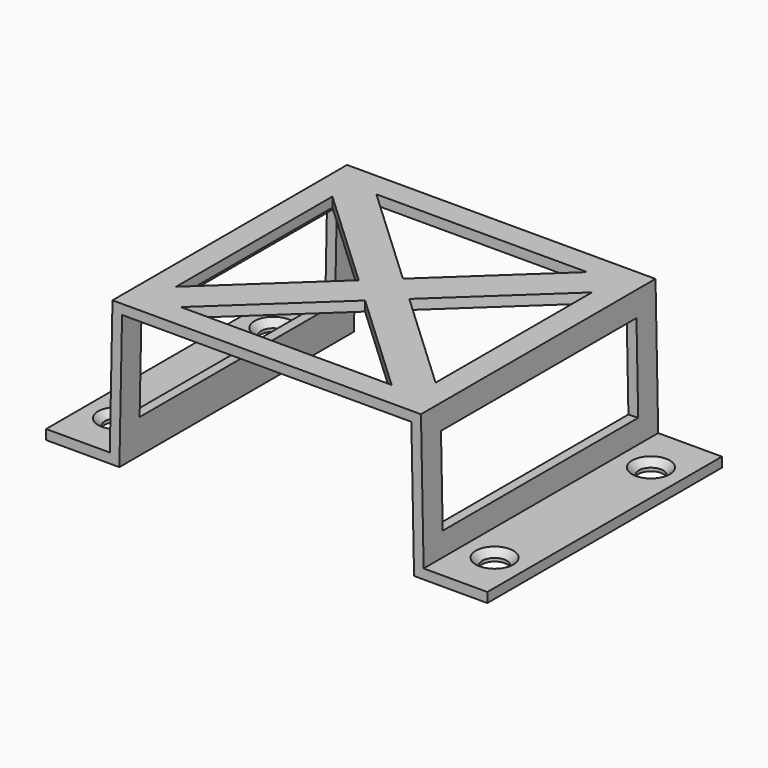
from build123d import *

# Parameters (mm, degrees)
F1_DEPTH       = 60
F3_D           = 5
F3_CSINK_D     = 7.7
F3_CSINK_ANGLE = 90
F5_DEPTH       = 29.6009997154
F6_W           = 50
F6_H           = 17.8652722283
F7_W           = 50
F7_H           = 17.6054795285
F8_DEPTH       = 5


with BuildPart() as f1:
    # F0 (on Front) → F1 (new body)
    with BuildSketch(Plane.XZ):
        Polygon((-88.3284620883, 15.3996990994), (-88.3284620883, 13.399699384), (-73.3284620883, 13.399699384), (-72.7784620883, 40.999699384), (-13.5784620883, 40.999699384), (-13.0284620883, 13.399699384), (1.9715379117, 13.399699384), (1.9715379117, 15.3996990994), (-11.0679203725, 15.3996990994), (-11.6179203725, 42.9996990994), (-74.7390038042, 42.9996990994), (-75.2890038042, 15.3996990994), align=None)
    extrude(amount=F1_DEPTH)

    # F3 (through all)
    with Locations(Plane.XY.offset(15.3996990994)):
        with Locations((-81.8087329462, -10), (-81.8087329462, -50), (-4.5481912304, -50), (-4.5481912304, -10)):
            CounterSinkHole(F3_D / 2, F3_CSINK_D / 2, counter_sink_angle=F3_CSINK_ANGLE)

    # F4 (on face) → F5 (cut, through all)
    with BuildSketch(Plane.XY.offset(42.9996990994)):
        Polygon((-48.3518556123, -30), (-69.7390038042, -10), (-69.7390038042, -50), align=None)
        Polygon((-21.6179203725, -5), (-64.7390038042, -5), (-43.1784620883, -25.1621474003), align=None)
        Polygon((-16.6179203725, -50), (-16.6179203725, -10), (-38.0050685644, -30), align=None)
        Polygon((-43.1784620883, -34.8378525997), (-64.7390038042, -55), (-21.6179203725, -55), align=None)
    extrude(amount=-F5_DEPTH, mode=Mode.SUBTRACT)

    # F6 (on face) + F7 (on face) → F8 (cut, symmetric)
    with BuildSketch(Plane(origin=(-10.756770725, 0, -0.2143559384), x_dir=(0, 1, 0), z_dir=(0.9998015058, 0, 0.0199235807))):
        with Locations((-30, 29.2899983673)):
            Rectangle(F6_W, F6_H)
    with BuildSketch(Plane(origin=(-75.565874151, 0, 1.505841695), x_dir=(0, -1, 0), z_dir=(-0.9998015058, 0, 0.0199235807))):
        with Locations((30, 27.6993555667)):
            Rectangle(F7_W, F7_H)
    extrude(amount=F8_DEPTH, both=True, dir=(0.9998015058, 0, 0.0199235807), mode=Mode.SUBTRACT)


solid = f1.part
